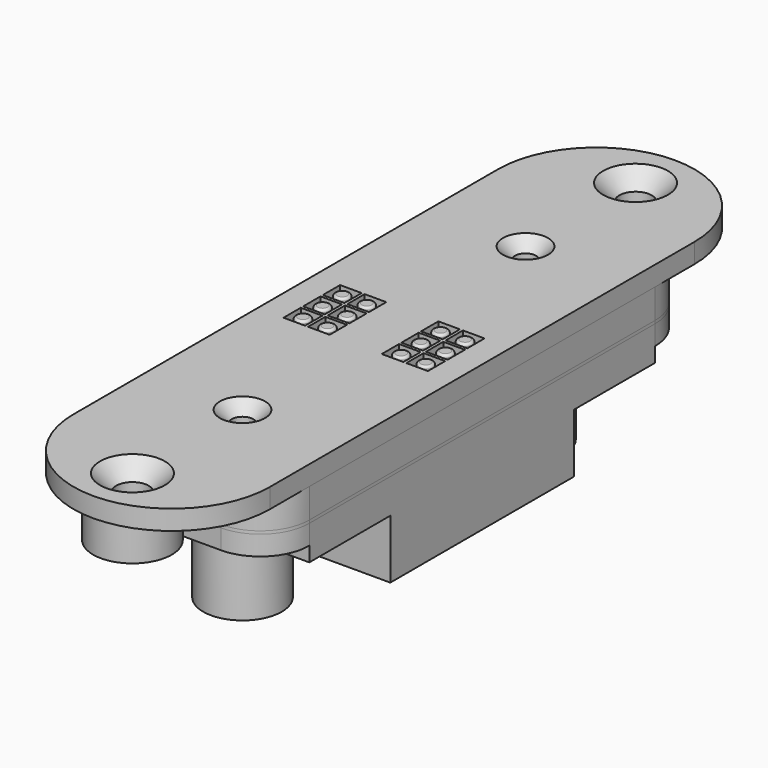
from build123d import *

# Parameters (mm, degrees)
CYLINDER_R                = 0.7
CYLINDER_DEPTH            = 16
CYLINDER_PITCH_ANGLE      = 90
CYLINDER001_R             = 0.7
CYLINDER001_DEPTH         = 16
CYLINDER001_PITCH_ANGLE   = 90
PAD003_DEPTH              = 1
PAD_DEPTH                 = 1
SKETCH001_R               = 0.75
PAD001_DEPTH              = 5
FILLET_R                  = 0.25
SKETCH002_W               = 20
SKETCH002_H               = 54
SKETCH002_R               = 1.1
SKETCH002_W_2             = 18
SKETCH002_H_2             = 42
PAD002_DEPTH              = 3
FILLET001_R               = 5
CHAMFER_SIZE              = 1.99
SKETCH009_W               = 20
SKETCH009_H               = 54
SKETCH009_R               = 1.1
PAD009_DEPTH              = 0.3
FILLET004_R               = 5
SKETCH004_W               = 1
SKETCH004_H               = 0.4
PAD004_DEPTH              = 1.3
FILLET002_R               = 0.3
FILLET003_R               = 0.2
FUSION003_PLACEMENT_ANGLE = 180
SKETCH019_R               = 1.65
SKETCH019_R_2             = 1.1
SKETCH019_W               = 2.2
SKETCH019_H               = 2.2
PAD019_DEPTH              = 2
CHAMFER001_SIZE           = 1.65
SKETCH020_R               = 4
SKETCH020_R_2             = 1.65
PAD020_DEPTH              = 4
FUSION007_PLACEMENT_ANGLE = 180
CHAMFER002_SIZE           = 1.2
SKETCH013_W               = 20
SKETCH013_H               = 6
PAD013_DEPTH              = 2
SKETCH025_W               = 20
SKETCH025_H               = 27
SKETCH025_R               = 2.3
SKETCH025_R_2             = 1.1
PAD025_DEPTH              = 3.5
SKETCH010_W               = 20
SKETCH010_H               = 11.7
SKETCH010_W_2             = 5.1
SKETCH010_H_2             = 5.1
PAD010_DEPTH              = 6
SKETCH011_R               = 4
SKETCH011_R_2             = 2
PAD011_DEPTH              = 8
PAD012_DEPTH              = 3
FUSION009_PLACEMENT_ANGLE = 180
SKETCH021_W               = 20
SKETCH021_H               = 27
SKETCH021_R               = 2.3
SKETCH021_R_2             = 1.1
PAD021_DEPTH              = 3.5
SKETCH022_W               = 20
SKETCH022_H               = 11.7
SKETCH022_W_2             = 5.1
SKETCH022_H_2             = 5.1
PAD022_DEPTH              = 6
SKETCH023_R               = 4
SKETCH023_R_2             = 2
PAD023_DEPTH              = 8.5
PAD024_DEPTH              = 3
FILLET005_R               = 5
CUT001_PLACEMENT_ANGLE    = 180


with BuildPart() as zylinder:
    # Cylinder → Cylinder (new body)
    with BuildSketch(Plane.XY):
        Circle(CYLINDER_R)
    extrude(amount=CYLINDER_DEPTH)


with BuildPart() as zylinder_1:
    # Cylinder pitch: moved
    add(zylinder.part.rotate(Axis((0, 0, 0), (0, 1, 0)), CYLINDER_PITCH_ANGLE))


with BuildPart() as zylinder_2:
    # Cylinder placement: moved
    add(zylinder_1.part.moved(Location((2, 47, 1))))


with BuildPart() as fusion001:
    # Cylinder001 → Cylinder001 (new body)
    with BuildSketch(Plane.XY):
        Circle(CYLINDER001_R)
    extrude(amount=CYLINDER001_DEPTH)


with BuildPart() as fusion001_1:
    # Cylinder001 pitch: moved
    add(fusion001.part.rotate(Axis((0, 0, 0), (0, 1, 0)), CYLINDER001_PITCH_ANGLE))


with BuildPart() as fusion001_2:
    # Cylinder001 placement: moved
    add(fusion001_1.part.moved(Location((2, 7, 1))))

    # Fusion001: union Zylinder
    add(zylinder_2.part)


with BuildPart() as pin2:
    # Sketch003 → Pad003 (new body)
    with BuildSketch(Plane(origin=(20, 54, 0), x_dir=(-1, 0, 0), z_dir=(0, 0, 1))):
        Polygon((2.625001, 6), (2.625001, 21.000001), (1.425002, 22.2), (1.425002, 25.945946), (3.425366, 27.346616), (4.151055, 26.740327), (2.425002, 25.531732), (2.425002, 22.614216), (3.625001, 21.414216), (3.625001, 6), align=None)
        Polygon((5.375002, 6), (5.375002, 21.000005), (3.25, 23.125007), (3.25, 24.5), (4.25, 24.5), (4.25, 23.539221), (6.375002, 21.414217), (6.375002, 6), align=None)
        Polygon((8.125003, 6), (8.125003, 21.000004), (5.749999, 23.375009), (5.749999, 24.5), (6.749998, 24.5), (6.749998, 23.789246), (9.125004, 21.414218), (9.125004, 6), align=None)
        Polygon((10.875003, 6), (10.875003, 24.800032), (13.474746, 27.399769), (14.178822, 26.689644), (11.875002, 24.385819), (11.875002, 6), align=None)
        Polygon((16.375001, 6), (16.375001, 22.750033), (15.75, 23.375034), (15.75, 24.499993), (16.75, 24.499993), (16.75, 23.789248), (17.375001, 23.164247), (17.375001, 6), align=None)
        Polygon((13.625002, 6), (14.625002, 6), (14.625002, 23.414246), (14.250001, 23.789247), (14.250001, 24.499996), (13.25, 24.499996), (13.25, 23.375034), (13.625002, 23.000032), align=None)
    extrude(amount=PAD003_DEPTH)


with BuildPart() as cut:
    # Sketch → Pad (new body)
    with BuildSketch(Plane.XY):
        Polygon((2.625001, 6), (2.625001, 21.000001), (1.425002, 22.2), (1.425002, 25.945946), (3.425366, 27.346616), (4.151055, 26.740327), (2.425002, 25.531732), (2.425002, 22.614216), (3.625001, 21.414216), (3.625001, 6), align=None)
        Polygon((5.375002, 6), (5.375002, 21.000005), (3.25, 23.125007), (3.25, 24.5), (4.25, 24.5), (4.25, 23.539221), (6.375002, 21.414217), (6.375002, 6), align=None)
        Polygon((8.125003, 6), (8.125003, 21.000004), (5.749999, 23.375009), (5.749999, 24.5), (6.749998, 24.5), (6.749998, 23.789246), (9.125004, 21.414218), (9.125004, 6), align=None)
        Polygon((10.875003, 6), (10.875003, 24.800032), (13.474746, 27.399769), (14.178822, 26.689644), (11.875002, 24.385819), (11.875002, 6), align=None)
        Polygon((16.375001, 6), (16.375001, 22.750033), (15.75, 23.375034), (15.75, 24.499993), (16.75, 24.499993), (16.75, 23.789248), (17.375001, 23.164247), (17.375001, 6), align=None)
        Polygon((13.625002, 6), (14.625002, 6), (14.625002, 23.414246), (14.250001, 23.789247), (14.250001, 24.499996), (13.25, 24.499996), (13.25, 23.375034), (13.625002, 23.000032), align=None)
    extrude(amount=PAD_DEPTH)

    # Fusion: union PIN2
    add(pin2.part)

    # Cut: cut Fusion001
    add(fusion001_2.part, mode=Mode.SUBTRACT)


with BuildPart() as fillet_body:
    # Sketch001 → Pad001 (new body)
    with BuildSketch(Plane.XY):
        with Locations((3.75, 29.5)):
            Circle(SKETCH001_R)
        with Locations((3.75, 27)):
            Circle(SKETCH001_R)
        with Locations((3.75, 24.5)):
            Circle(SKETCH001_R)
        with Locations((6.25, 29.5)):
            Circle(SKETCH001_R)
        with Locations((6.25, 27)):
            Circle(SKETCH001_R)
        with Locations((6.25, 24.5)):
            Circle(SKETCH001_R)
        with Locations((13.75, 29.5)):
            Circle(SKETCH001_R)
        with Locations((13.75, 27)):
            Circle(SKETCH001_R)
        with Locations((13.75, 24.5)):
            Circle(SKETCH001_R)
        with Locations((16.25, 24.5)):
            Circle(SKETCH001_R)
        with Locations((16.25, 27)):
            Circle(SKETCH001_R)
        with Locations((16.25, 29.5)):
            Circle(SKETCH001_R)
    extrude(amount=PAD001_DEPTH)

    # Fillet
    fillet_edges = [fillet_body.edges().sort_by_distance(p)[0] for p in [
        (3, 24.5, 5),
        (3, 27, 5),
        (3, 29.5, 5),
        (5.5, 29.5, 5),
        (5.5, 27, 5),
        (5.5, 24.5, 5),
        (13, 24.5, 5),
        (15.5, 24.5, 5),
        (15.5, 27, 5),
        (13, 27, 5),
        (13, 29.5, 5),
        (15.5, 29.5, 5),
    ]]
    fillet(fillet_edges, radius=FILLET_R)


with BuildPart() as pins:
    # Sketch002 → Pad002 (new body)
    with BuildSketch(Plane.XY):
        with Locations((10, 27)):
            Rectangle(SKETCH002_W, SKETCH002_H)
        with Locations((10, 2)):
            Circle(SKETCH002_R, mode=Mode.SUBTRACT)
        with Locations((10, 52)):
            Circle(SKETCH002_R, mode=Mode.SUBTRACT)
        with Locations((10, 27)):
            Rectangle(SKETCH002_W_2, SKETCH002_H_2, mode=Mode.SUBTRACT)
    extrude(amount=PAD002_DEPTH)

    # Fusion002: union Cut, Fillet body
    add(cut.part)
    add(fillet_body.part)


with BuildPart() as pins_1:
    # Fusion002 placement: moved
    add(pins.part.moved(Location((0, 0, 0.3))))

    # Fillet001
    fillet001_edges = [pins_1.edges().sort_by_distance(p)[0] for p in [
        (0, 54, 1.8),
        (20, 54, 1.8),
        (20, 0, 1.8),
        (0, 0, 1.8),
    ]]
    fillet(fillet001_edges, radius=FILLET001_R)

    # Chamfer
    chamfer_edges = [pins_1.edges().sort_by_distance(p)[0] for p in [
        (10, 48, 3.3),
        (10, 6, 3.3),
    ]]
    chamfer(chamfer_edges, length=CHAMFER_SIZE)


with BuildPart() as fillet004:
    # Sketch009 → Pad009 (new body)
    with BuildSketch(Plane.XY):
        with Locations((10, 27)):
            Rectangle(SKETCH009_W, SKETCH009_H)
        with Locations((10, 52)):
            Circle(SKETCH009_R, mode=Mode.SUBTRACT)
        with Locations((10, 2)):
            Circle(SKETCH009_R, mode=Mode.SUBTRACT)
        Polygon((1, 48), (1, 6), (2.625, 6), (2.625, 20.45), (3.625, 20.45), (3.625, 6), (5.375, 6), (5.375, 22.25), (6.375, 22.25), (6.375, 6), (8.125, 6), (8.125, 20.45), (9.125, 20.45), (9.125, 6), (10.875, 6), (10.875, 22.25), (11.875, 22.25), (11.875, 6), (13.625, 6), (13.625, 20.45), (14.625, 20.45), (14.625, 6), (16.375, 6), (16.375, 22.25), (17.375, 22.25), (17.375, 6), (19, 6), (19, 48), (17.375, 48), (17.375, 33.55), (16.375, 33.55), (16.375, 48), (14.625, 48), (14.625, 31.75), (13.625, 31.75), (13.625, 48), (11.875, 48), (11.875, 33.55), (10.875, 33.55), (10.875, 48), (9.125, 48), (9.125, 31.75), (8.125, 31.75), (8.125, 48), (6.375, 48), (6.375, 33.55), (5.375, 33.55), (5.375, 48), (3.625, 48), (3.625, 31.75), (2.625, 31.75), (2.625, 48), align=None, mode=Mode.SUBTRACT)
    extrude(amount=PAD009_DEPTH)

    # Fillet004
    fillet004_edges = [fillet004.edges().sort_by_distance(p)[0] for p in [
        (0, 0, 0.15),
        (20, 0, 0.15),
        (20, 54, 0.15),
        (0, 54, 0.15),
    ]]
    fillet(fillet004_edges, radius=FILLET004_R)


with BuildPart() as lever:
    # Sketch004 → Pad004 (new body)
    with BuildSketch(Plane.XY.offset(0.3)):
        with Locations((3.125, 20.25)):
            Rectangle(SKETCH004_W, SKETCH004_H)
        with Locations((5.875, 22.05)):
            Rectangle(SKETCH004_W, SKETCH004_H)
        with Locations((8.625, 20.25)):
            Rectangle(SKETCH004_W, SKETCH004_H)
        with Locations((11.375, 22.05)):
            Rectangle(SKETCH004_W, SKETCH004_H)
        with Locations((14.125, 20.25)):
            Rectangle(SKETCH004_W, SKETCH004_H)
        with Locations((16.875, 22.05)):
            Rectangle(SKETCH004_W, SKETCH004_H)
        with Locations((3.125, 31.95)):
            Rectangle(SKETCH004_W, SKETCH004_H)
        with Locations((5.875, 33.75)):
            Rectangle(SKETCH004_W, SKETCH004_H)
        with Locations((8.625, 31.95)):
            Rectangle(SKETCH004_W, SKETCH004_H)
        with Locations((11.375, 33.75)):
            Rectangle(SKETCH004_W, SKETCH004_H)
        with Locations((14.125, 31.95)):
            Rectangle(SKETCH004_W, SKETCH004_H)
        with Locations((16.875, 33.75)):
            Rectangle(SKETCH004_W, SKETCH004_H)
    extrude(amount=PAD004_DEPTH)

    # Fillet002
    fillet002_edges = [lever.edges().sort_by_distance(p)[0] for p in [
        (3.625, 31.95, 1.6),
        (2.625, 31.95, 1.6),
        (5.375, 33.75, 1.6),
        (6.375, 33.75, 1.6),
        (8.125, 31.95, 1.6),
        (9.125, 31.95, 1.6),
        (10.875, 33.75, 1.6),
        (11.875, 33.75, 1.6),
        (13.625, 31.95, 1.6),
        (14.625, 31.95, 1.6),
        (16.375, 33.75, 1.6),
        (17.375, 33.75, 1.6),
        (17.375, 22.05, 1.6),
        (16.375, 22.05, 1.6),
        (14.625, 20.25, 1.6),
        (13.625, 20.25, 1.6),
        (11.875, 22.05, 1.6),
        (10.875, 22.05, 1.6),
        (9.125, 20.25, 1.6),
        (8.125, 20.25, 1.6),
        (6.375, 22.05, 1.6),
        (5.375, 22.05, 1.6),
        (3.625, 20.25, 1.6),
        (2.625, 20.25, 1.6),
    ]]
    fillet(fillet002_edges, radius=FILLET002_R)

    # Fillet003
    fillet003_edges = [lever.edges().sort_by_distance(p)[0] for p in [
        (3.125, 20.45, 1.6),
        (5.875, 21.85, 1.6),
        (8.625, 20.45, 1.6),
        (11.375, 21.85, 1.6),
        (14.125, 20.45, 1.6),
        (16.875, 21.85, 1.6),
        (16.875, 33.55, 1.6),
        (14.125, 32.15, 1.6),
        (11.375, 33.55, 1.6),
        (8.625, 32.15, 1.6),
        (5.875, 33.55, 1.6),
        (3.125, 32.15, 1.6),
    ]]
    fillet(fillet003_edges, radius=FILLET003_R)

    # Fusion003: union Fillet004
    add(fillet004.part)


with BuildPart() as lever_1:
    # Fusion003 placement: moved
    add(lever.part.moved(Location((0, 54, 0.3))).rotate(Axis((0, 54, 0.3), (1, 0, 0)), FUSION003_PLACEMENT_ANGLE))


with BuildPart() as chamfer001:
    # Sketch019 → Pad019 (new body)
    with BuildSketch(Plane.XY):
        with BuildLine():
            Line((0, 10), (0, 64))
            ThreePointArc((20, 64), (10, 74), (0, 64))
            Line((20, 64), (20, 10))
            ThreePointArc((0, 10), (10, 0), (20, 10))
        make_face()
        with Locations((10, 69)):
            Circle(SKETCH019_R, mode=Mode.SUBTRACT)
        with Locations((10, 5)):
            Circle(SKETCH019_R, mode=Mode.SUBTRACT)
        with Locations((10, 55)):
            Circle(SKETCH019_R_2, mode=Mode.SUBTRACT)
        with Locations((10, 19)):
            Circle(SKETCH019_R_2, mode=Mode.SUBTRACT)
        with Locations((3.75, 39.5)):
            Rectangle(SKETCH019_W, SKETCH019_H, mode=Mode.SUBTRACT)
        with Locations((3.75, 37)):
            Rectangle(SKETCH019_W, SKETCH019_H, mode=Mode.SUBTRACT)
        with Locations((3.75, 34.5)):
            Rectangle(SKETCH019_W, SKETCH019_H, mode=Mode.SUBTRACT)
        with Locations((6.25, 34.5)):
            Rectangle(SKETCH019_W, SKETCH019_H, mode=Mode.SUBTRACT)
        with Locations((6.25, 37)):
            Rectangle(SKETCH019_W, SKETCH019_H, mode=Mode.SUBTRACT)
        with Locations((6.25, 39.5)):
            Rectangle(SKETCH019_W, SKETCH019_H, mode=Mode.SUBTRACT)
        with Locations((13.75, 39.5)):
            Rectangle(SKETCH019_W, SKETCH019_H, mode=Mode.SUBTRACT)
        with Locations((13.75, 37)):
            Rectangle(SKETCH019_W, SKETCH019_H, mode=Mode.SUBTRACT)
        with Locations((13.75, 34.5)):
            Rectangle(SKETCH019_W, SKETCH019_H, mode=Mode.SUBTRACT)
        with Locations((16.25, 34.5)):
            Rectangle(SKETCH019_W, SKETCH019_H, mode=Mode.SUBTRACT)
        with Locations((16.25, 37)):
            Rectangle(SKETCH019_W, SKETCH019_H, mode=Mode.SUBTRACT)
        with Locations((16.25, 39.5)):
            Rectangle(SKETCH019_W, SKETCH019_H, mode=Mode.SUBTRACT)
    extrude(amount=PAD019_DEPTH)

    # Chamfer001
    chamfer001_edges = [chamfer001.edges().sort_by_distance(p)[0] for p in [
        (8.35, 69, 0),
        (8.35, 5, 0),
    ]]
    chamfer(chamfer001_edges, length=CHAMFER001_SIZE)


with BuildPart() as topplate001:
    # Sketch020 → Pad020 (new body)
    with BuildSketch(Plane.XY.offset(2)):
        with Locations((10, 69)):
            Circle(SKETCH020_R)
        with Locations((10, 69)):
            Circle(SKETCH020_R_2, mode=Mode.SUBTRACT)
        with Locations((10, 5)):
            Circle(SKETCH020_R)
        with Locations((10, 5)):
            Circle(SKETCH020_R_2, mode=Mode.SUBTRACT)
    extrude(amount=PAD020_DEPTH)

    # Fusion007: union Chamfer001
    add(chamfer001.part)


with BuildPart() as topplate001_1:
    # Fusion007 placement: moved
    add(topplate001.part.moved(Location((20, -10, 5.3))).rotate(Axis((20, -10, 5.3), (0, 1, 0)), FUSION007_PLACEMENT_ANGLE))

    # Chamfer002
    chamfer002_edges = [topplate001_1.edges().sort_by_distance(p)[0] for p in [
        (11.1, 45, 5.3),
        (11.1, 9, 5.3),
    ]]
    chamfer(chamfer002_edges, length=CHAMFER002_SIZE)


with BuildPart() as pad013:
    # Sketch013 → Pad013 (new body)
    with BuildSketch(Plane.XY.offset(2)):
        with Locations((10, 25)):
            Rectangle(SKETCH013_W, SKETCH013_H)
        with Locations((10, -25)):
            Rectangle(SKETCH013_W, SKETCH013_H)
    extrude(amount=PAD013_DEPTH)


with BuildPart() as pad025:
    # Sketch025 → Pad025 (new body)
    with BuildSketch(Plane.XY):
        with Locations((10, 13.5)):
            Rectangle(SKETCH025_W, SKETCH025_H)
        with Locations((5.875, 8.65)):
            Circle(SKETCH025_R, mode=Mode.SUBTRACT)
        with Locations((11.375, 8.65)):
            Circle(SKETCH025_R, mode=Mode.SUBTRACT)
        with Locations((16.875, 8.65)):
            Circle(SKETCH025_R, mode=Mode.SUBTRACT)
        with Locations((14.125, 3.05)):
            Circle(SKETCH025_R, mode=Mode.SUBTRACT)
        with Locations((8.625, 3.05)):
            Circle(SKETCH025_R, mode=Mode.SUBTRACT)
        with Locations((3.125, 3.05)):
            Circle(SKETCH025_R, mode=Mode.SUBTRACT)
        with Locations((10, 25)):
            Circle(SKETCH025_R_2, mode=Mode.SUBTRACT)
    extrude(amount=PAD025_DEPTH)


with BuildPart() as pad010:
    # Sketch010 → Pad010 (new body)
    with BuildSketch(Plane.XY.offset(3.5)):
        with Locations((10, 5.85)):
            Rectangle(SKETCH010_W, SKETCH010_H)
        with Locations((5.875, 8.65)):
            Rectangle(SKETCH010_W_2, SKETCH010_H_2, mode=Mode.SUBTRACT)
        with Locations((11.375, 8.65)):
            Rectangle(SKETCH010_W_2, SKETCH010_H_2, mode=Mode.SUBTRACT)
        with Locations((16.875, 8.65)):
            Rectangle(SKETCH010_W_2, SKETCH010_H_2, mode=Mode.SUBTRACT)
        with Locations((3.125, 3.05)):
            Rectangle(SKETCH010_W_2, SKETCH010_H_2, mode=Mode.SUBTRACT)
        with Locations((8.625, 3.05)):
            Rectangle(SKETCH010_W_2, SKETCH010_H_2, mode=Mode.SUBTRACT)
        with Locations((14.125, 3.05)):
            Rectangle(SKETCH010_W_2, SKETCH010_H_2, mode=Mode.SUBTRACT)
    extrude(amount=PAD010_DEPTH)


with BuildPart() as pad011:
    # Sketch011 → Pad011 (new body)
    with BuildSketch(Plane.XY.offset(3.5)):
        with Locations((10, 18)):
            Circle(SKETCH011_R)
        with Locations((10, 18)):
            Circle(SKETCH011_R_2, mode=Mode.SUBTRACT)
    extrude(amount=PAD011_DEPTH)


with BuildPart() as fusion009:
    # Sketch012 → Pad012 (new body)
    with BuildSketch(Plane.XY):
        Polygon((3.14451, 10.296382), (4.812228, 8.962195), (5.229761, 9.506803), (3.848642, 11.027596), align=None)
        Polygon((8.80602, 10.523404), (10.348319, 9.131856), (10.816751, 9.610404), (9.51401, 11.285856), align=None)
        Polygon((14.379175, 10.541558), (16.031153, 8.980349), (16.575762, 9.434188), (15.141627, 11.176934), align=None)
        Polygon((3.671404, 2.070844), (4.913085, 0.518744), (5.689134, 1.228275), (4.18138, 2.602993), align=None)
        Polygon((8.904199, 2.181709), (10.38978, 0.496571), (11.121485, 1.250448), (9.547212, 2.669512), align=None)
        Polygon((14.558277, 2.181709), (15.66692, 0.518744), (16.553833, 1.33914), (15.090425, 2.602993), align=None)
    extrude(amount=PAD012_DEPTH)

    # Fusion009: union Pad025, Pad010, Pad011
    add(pad025.part)
    add(pad010.part)
    add(pad011.part)


with BuildPart() as fusion009_1:
    # Fusion009 placement: moved
    add(fusion009.part.moved(Location((20, 0, 0))).rotate(Axis((20, 0, 0), (0, 0, 1)), FUSION009_PLACEMENT_ANGLE))


with BuildPart() as pad021:
    # Sketch021 → Pad021 (new body)
    with BuildSketch(Plane.XY):
        with Locations((10, 13.5)):
            Rectangle(SKETCH021_W, SKETCH021_H)
        with Locations((5.875, 8.65)):
            Circle(SKETCH021_R, mode=Mode.SUBTRACT)
        with Locations((11.375, 8.65)):
            Circle(SKETCH021_R, mode=Mode.SUBTRACT)
        with Locations((16.875, 8.65)):
            Circle(SKETCH021_R, mode=Mode.SUBTRACT)
        with Locations((14.125, 3.05)):
            Circle(SKETCH021_R, mode=Mode.SUBTRACT)
        with Locations((8.625, 3.05)):
            Circle(SKETCH021_R, mode=Mode.SUBTRACT)
        with Locations((3.125, 3.05)):
            Circle(SKETCH021_R, mode=Mode.SUBTRACT)
        with Locations((10, 25)):
            Circle(SKETCH021_R_2, mode=Mode.SUBTRACT)
    extrude(amount=PAD021_DEPTH)


with BuildPart() as pad022:
    # Sketch022 → Pad022 (new body)
    with BuildSketch(Plane.XY.offset(3.5)):
        with Locations((10, 5.85)):
            Rectangle(SKETCH022_W, SKETCH022_H)
        with Locations((5.875, 8.65)):
            Rectangle(SKETCH022_W_2, SKETCH022_H_2, mode=Mode.SUBTRACT)
        with Locations((11.375, 8.65)):
            Rectangle(SKETCH022_W_2, SKETCH022_H_2, mode=Mode.SUBTRACT)
        with Locations((16.875, 8.65)):
            Rectangle(SKETCH022_W_2, SKETCH022_H_2, mode=Mode.SUBTRACT)
        with Locations((3.125, 3.05)):
            Rectangle(SKETCH022_W_2, SKETCH022_H_2, mode=Mode.SUBTRACT)
        with Locations((8.625, 3.05)):
            Rectangle(SKETCH022_W_2, SKETCH022_H_2, mode=Mode.SUBTRACT)
        with Locations((14.125, 3.05)):
            Rectangle(SKETCH022_W_2, SKETCH022_H_2, mode=Mode.SUBTRACT)
    extrude(amount=PAD022_DEPTH)


with BuildPart() as pad023:
    # Sketch023 → Pad023 (new body)
    with BuildSketch(Plane.XY.offset(3.5)):
        with Locations((10, 18)):
            Circle(SKETCH023_R)
        with Locations((10, 18)):
            Circle(SKETCH023_R_2, mode=Mode.SUBTRACT)
    extrude(amount=PAD023_DEPTH)


with BuildPart() as motorholder:
    # Sketch024 → Pad024 (new body)
    with BuildSketch(Plane.XY):
        Polygon((3.14451, 10.296382), (4.812228, 8.962195), (5.229761, 9.506803), (3.848642, 11.027596), align=None)
        Polygon((8.80602, 10.523404), (10.348319, 9.131856), (10.816751, 9.610404), (9.51401, 11.285856), align=None)
        Polygon((14.379175, 10.541558), (16.031153, 8.980349), (16.575762, 9.434188), (15.141627, 11.176934), align=None)
        Polygon((3.671404, 2.070844), (4.913085, 0.518744), (5.689134, 1.228275), (4.18138, 2.602993), align=None)
        Polygon((8.904199, 2.181709), (10.38978, 0.496571), (11.121485, 1.250448), (9.547212, 2.669512), align=None)
        Polygon((14.558277, 2.181709), (15.66692, 0.518744), (16.553833, 1.33914), (15.090425, 2.602993), align=None)
    extrude(amount=PAD024_DEPTH)

    # Fusion008: union Pad021, Pad022, Pad023
    add(pad021.part)
    add(pad022.part)
    add(pad023.part)

    # Fusion010: union Fusion009
    add(fusion009_1.part)

    # Fillet005
    fillet005_edges = [motorholder.edges().sort_by_distance(p)[0] for p in [
        (0, 27, 1.75),
        (20, 27, 1.75),
        (20, -27, 1.75),
        (0, -27, 1.75),
    ]]
    fillet(fillet005_edges, radius=FILLET005_R)

    # Cut001: cut Pad013
    add(pad013.part, mode=Mode.SUBTRACT)


with BuildPart() as motorholder_1:
    # Cut001 placement: moved
    add(motorholder.part.moved(Location((20, 27, 0))).rotate(Axis((20, 27, 0), (0, 1, 0)), CUT001_PLACEMENT_ANGLE))


solid = Compound([pins_1.part, lever_1.part, topplate001_1.part, motorholder_1.part])
